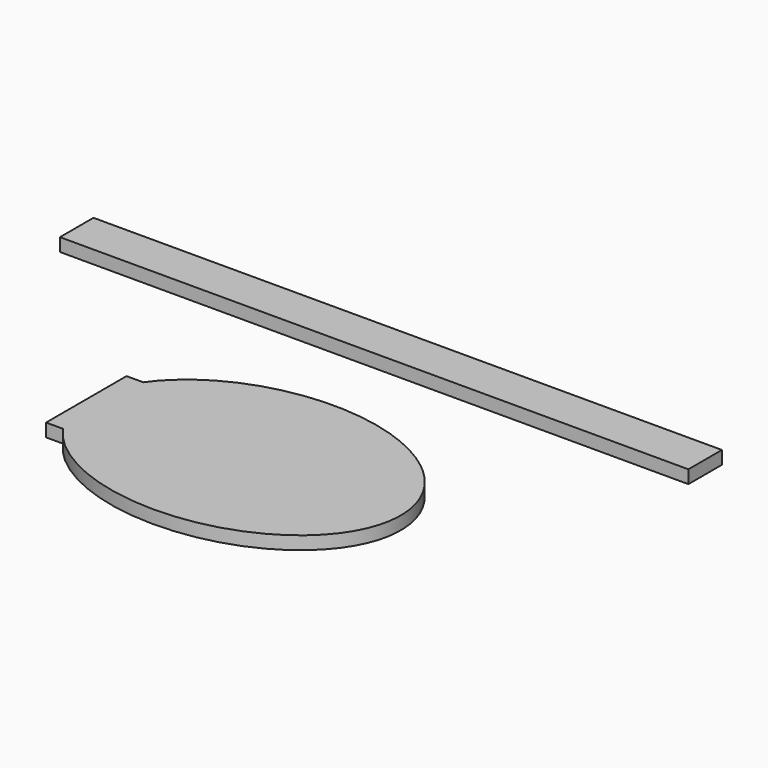
from build123d import *

# Parameters (mm, degrees)
F0_W     = 1200
F0_H     = 80
F1_DEPTH = 25
F3_DEPTH = 25


with BuildPart() as f1:
    # F0 (on Top) → F1 (new body)
    with BuildSketch(Plane.XY):
        with Locations((-58.239898998, 424.3532568216)):
            Rectangle(F0_W, F0_H)
    extrude(amount=F1_DEPTH)


with BuildPart() as f3:
    # F2 (on Top) → F3 (new body)
    with BuildSketch(Plane.XY):
        with BuildLine():
            Line((-300.4333491818, -96), (-268.4333491818, -96))
            add(Edge.make_bspline(
                [(-268.4333491818, -96), (-102.0669678637, -334.9269931502), (188.1444480536, -167.4634965751), (478.3558639709, 0), (188.1444480536, 167.4634965751), (-102.0669678637, 334.9269931502), (-268.4333491818, 96)],
                knots=[0.4628629392, 0.4628629392, 0.4628629392, 2.2486827488, 2.2486827488, 4.0345025584, 4.0345025584, 5.820322368, 5.820322368, 5.820322368], degree=2, weights=[1, 0.6271481602, 1, 0.6271481602, 1, 0.6271481602, 1]))
            Line((-268.4333491818, 96), (-300.4333491818, 96))
            Line((-300.4333491818, 96), (-300.4333491818, -96))
        make_face()
    extrude(amount=F3_DEPTH)


solid = Compound([f1.part, f3.part])
